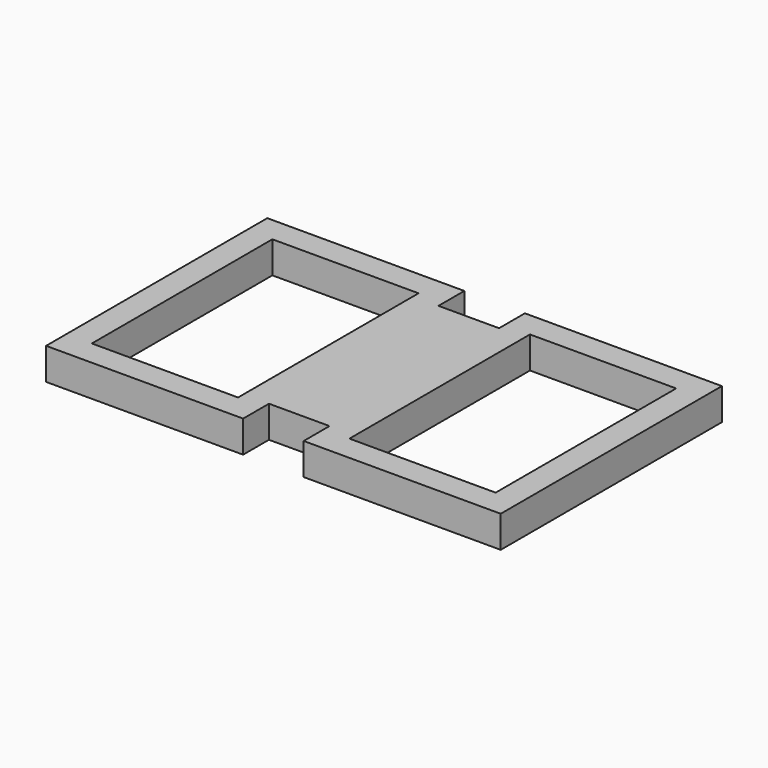
from build123d import *

# Parameters (mm, degrees)
F0_W     = 23
F0_H     = 35.5
F0_W_2   = 9.525
F0_H_2   = 33.34
F1_DEPTH = 5


with BuildPart() as f1:
    # F0 (on Top) → F1 (new body)
    with BuildSketch(Plane.XY):
        Polygon((-31, 0), (0, 0), (0, 5.08), (0, 38.42), (0, 43.5), (-31, 43.5), align=None)
        with Locations((-15.5, 21.75)):
            Rectangle(F0_W, F0_H, mode=Mode.SUBTRACT)
        with Locations((4.7625, 21.75)):
            Rectangle(F0_W_2, F0_H_2)
        Polygon((9.525, 38.42), (9.525, 5.08), (9.525, 0), (40.525, 0), (40.525, 43.5), (9.525, 43.5), align=None)
        with Locations((25.025, 21.75)):
            Rectangle(F0_W, F0_H, mode=Mode.SUBTRACT)
    extrude(amount=F1_DEPTH)


solid = f1.part
